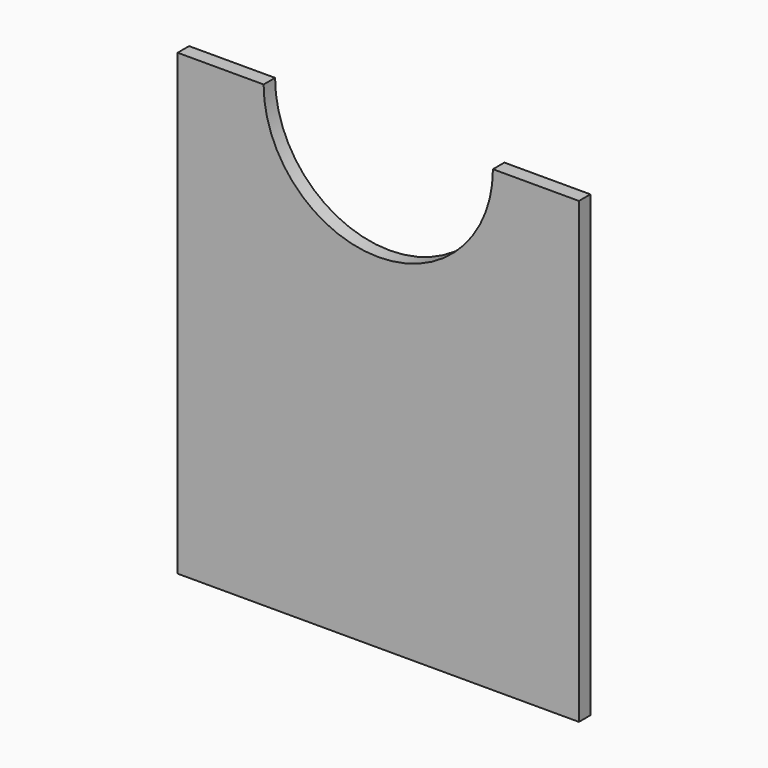
from build123d import *

# Parameters (mm, degrees)
F0_W     = 177.8
F0_H     = 203.2
F1_DEPTH = 6.35
F3_DEPTH = 6.351


with BuildPart() as f1:
    # F0 (on Front) → F1 (new body)
    with BuildSketch(Plane.XZ):
        Rectangle(F0_W, F0_H)
    extrude(amount=F1_DEPTH)

    # F2 (on face) → F3 (cut, through all)
    with BuildSketch(Plane.XZ.offset(6.35)):
        with BuildLine():
            Line((50.8, 101.6), (-50.8, 101.6))
            ThreePointArc((-50.8, 101.6), (0, 50.8), (50.8, 101.6))
        make_face()
    extrude(amount=-F3_DEPTH, mode=Mode.SUBTRACT)


solid = f1.part
